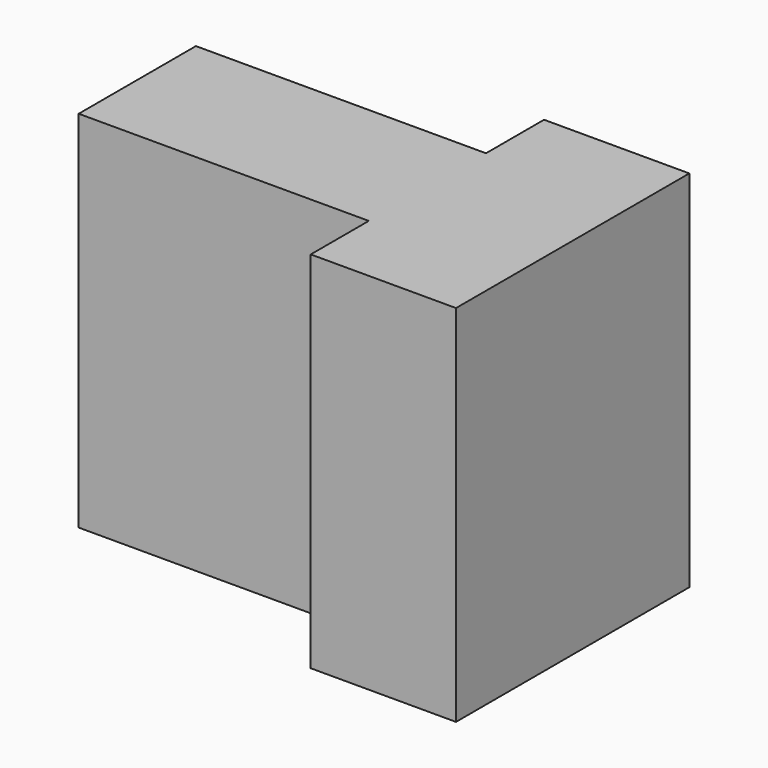
from build123d import *

# Parameters (mm, degrees)
F0_W     = 12.822116
F0_H     = 31.884328
F1_DEPTH = 38.1
F2_W     = 12.712212
F2_H     = 31.884328
F3_DEPTH = 6.35
F4_W     = 12.712212
F4_H     = 31.884328
F5_DEPTH = 6.35


with BuildPart() as f1:
    # F0 (on Right) → F1 (new body)
    with BuildSketch(Plane.YZ):
        with Locations((32.140768, 15.942164)):
            Rectangle(F0_W, F0_H)
    extrude(amount=F1_DEPTH)

    # F2 (on face) → F3 (join)
    with BuildSketch(Plane(origin=(0, 38.551826, 0), x_dir=(-1, 0, 0), z_dir=(0, 1, 0))):
        with Locations((-31.743894, 15.942164)):
            Rectangle(F2_W, F2_H)
    extrude(amount=F3_DEPTH)

    # F4 (on face) → F5 (join)
    with BuildSketch(Plane.XZ.offset(-25.72971)):
        with Locations((31.743894, 15.942164)):
            Rectangle(F4_W, F4_H)
    extrude(amount=F5_DEPTH)


solid = f1.part
